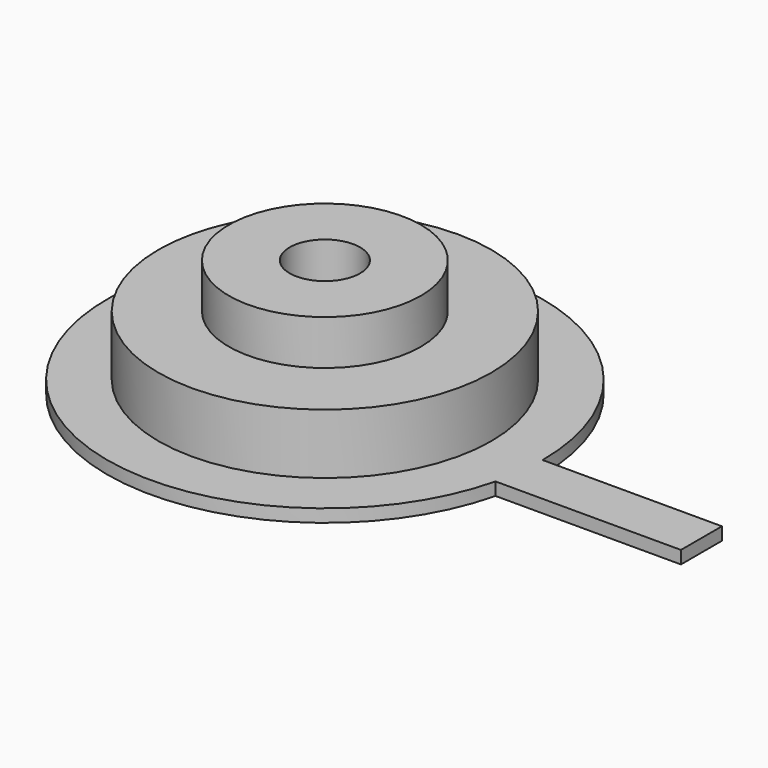
from build123d import *

# Parameters (mm, degrees)
SKETCH_R     = 17
PAD_DEPTH    = 1
SKETCH001_R  = 13
PAD001_DEPTH = 4.7
SKETCH002_R  = 7.5
PAD002_DEPTH = 3.5
SKETCH003_W  = 31
SKETCH003_H  = 4
PAD003_DEPTH = 1
SKETCH004_R  = 2.75
HOLE_DEPTH   = 9.201


with BuildPart() as part:
    # Sketch → Pad (new body)
    with BuildSketch(Plane.XY):
        Circle(SKETCH_R)
    extrude(amount=PAD_DEPTH)

    # Sketch001 (on Face3 of Pad) → Pad001 (join)
    with BuildSketch(Plane.XY.offset(1)):
        Circle(SKETCH001_R)
    extrude(amount=PAD001_DEPTH)

    # Sketch002 (on Face5 of Pad001) → Pad002 (join)
    with BuildSketch(Plane.XY.offset(5.7)):
        Circle(SKETCH002_R)
    extrude(amount=PAD002_DEPTH)

    # Sketch003 (on Face2 of Pad002) → Pad003 (join)
    with BuildSketch(Plane(origin=(0, 0, 0), x_dir=(1, 0, 0), z_dir=(0, 0, -1))):
        with Locations((15.5, 2)):
            Rectangle(SKETCH003_W, SKETCH003_H)
    extrude(amount=-PAD003_DEPTH)

    # Sketch004 (on Face2 of Pad003) → Hole (cut, through all)
    with BuildSketch(Plane(origin=(0, 0, 0), x_dir=(1, 0, 0), z_dir=(0, 0, -1))):
        Circle(SKETCH004_R)
    extrude(amount=-HOLE_DEPTH, mode=Mode.SUBTRACT)


solid = part.part
